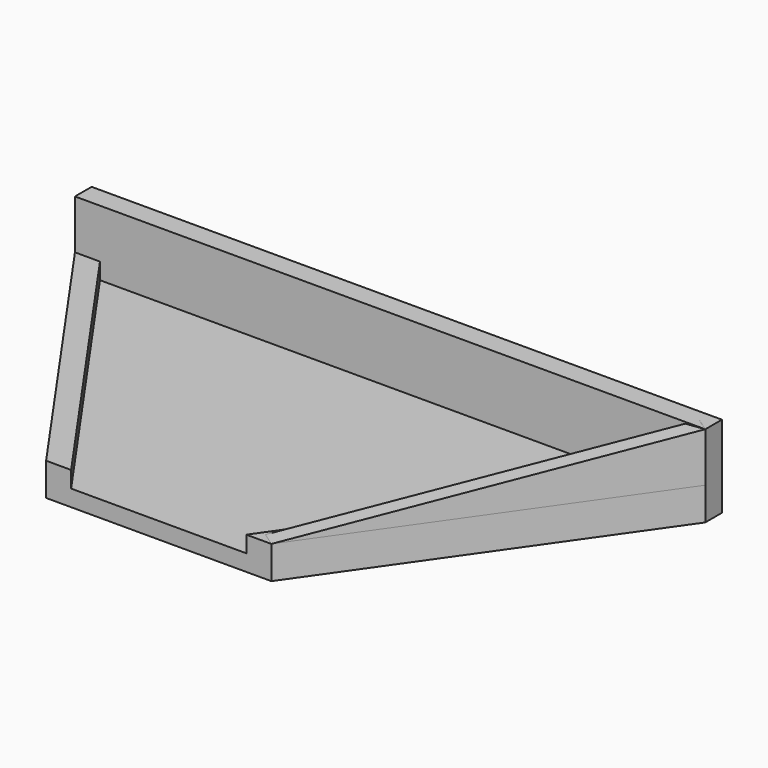
from build123d import *

# Parameters (mm, degrees)
F1_DEPTH = 2
F2_DEPTH = 4
F0_W     = 70.7484384206
F0_H     = 2.5396057816
F3_DEPTH = 10
F0_W_2   = 3.0519364719
F4_DEPTH = 10
F6_DEPTH = 2


with BuildPart() as f1:
    # F0 (on Top) → F1 (new body)
    with BuildSketch(Plane.XY):
        Polygon((-33.9991840492, 35.2650536744), (-9.306327631, 0), (12.0563979532, 0), (36.7492543714, 35.2650536744), align=None)
    extrude(amount=F1_DEPTH)

    # F0 (on Top) → F2 (join)
    with BuildSketch(Plane.XY):
        Polygon((-37.0511205211, 35.2650536744), (-12.3582641029, 0), (-9.306327631, 0), (-33.9991840492, 35.2650536744), align=None)
        Polygon((36.7492543714, 35.2650536744), (12.0563979532, 0), (15.1083344251, 0), (39.8011908433, 35.2650536744), align=None)
    extrude(amount=F2_DEPTH)



with BuildPart() as f3:
    # F0 (on Top) → F3 (new body)
    with BuildSketch(Plane.XY):
        with Locations((1.3750351611, 36.5348565652)):
            Rectangle(F0_W, F0_H)
    extrude(amount=F3_DEPTH)


with BuildPart() as f1_1:
    add(f1.part)

    add(f3.part)  # F4 merges F3
    # F0 (on Top) → F4 (join)
    with BuildSketch(Plane.XY):
        with Locations((38.2752226073, 36.5348565652)):
            Rectangle(F0_W_2, F0_H)
        with Locations((-35.5251522851, 36.5348565652)):
            Rectangle(F0_W_2, F0_H)
    extrude(amount=F4_DEPTH)

    # F5 (on face) → F6 (join)
    with BuildSketch(Plane(origin=(10.1378445653, -7.0985951858, 0), x_dir=(0.5735764364, 0.8191520443, 0), z_dir=(0.8191520443, -0.5735764364, 0))):
        Polygon((51.7171509564, 10.0024873391), (8.6657846187, 4), (51.7164660158, 4), align=None)
    extrude(amount=-F6_DEPTH)


solid = f1_1.part
